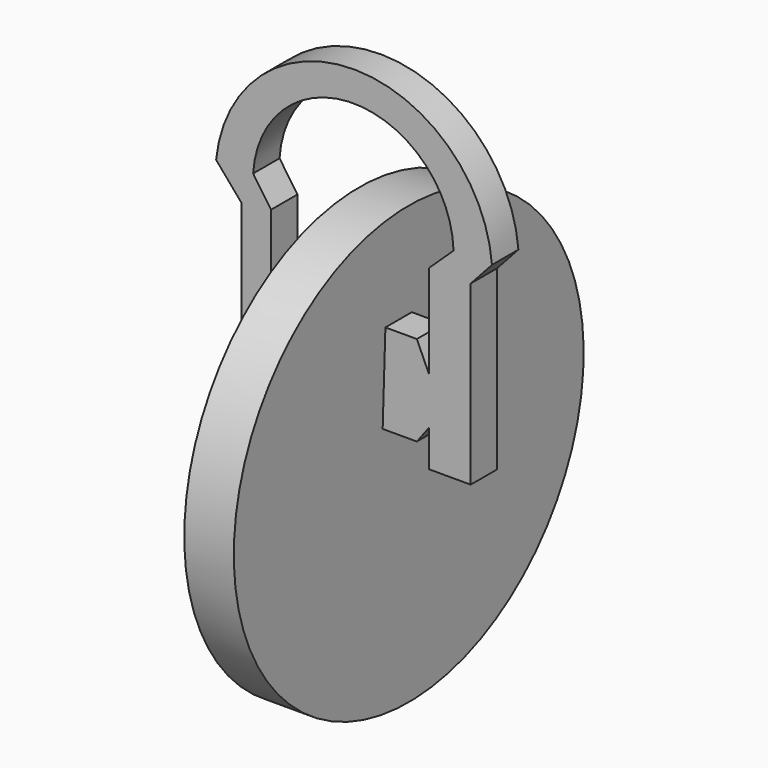
from build123d import *

# Parameters (mm, degrees)
F1_DEPTH = 7.62
F3_DEPTH = 5.08
F4_W     = 6.4344388135
F4_H     = 27.2329575382
F5_DEPTH = 5.08
F4_W_2   = 1.0554231703
F4_H_2   = 7.1008047089
F6_DEPTH = 5.08


with BuildPart() as f1:
    # F0 (on Right) → F1 (new body)
    with BuildSketch(Plane.YZ):
        with BuildLine():
            ThreePointArc((14.3857927618, 30.3976343496), (-28.4144271888, -17.9885389893), (33.6298558938, 0))
            ThreePointArc((33.6298558938, 0), (28.6741019189, 17.5716557724), (15.2674170206, 29.9645321165))
            Line((15.2674170206, 29.9645321165), (0.7576213102, 0))
            Line((0.7576213102, 0), (-0.5346691469, 0))
            Line((-0.5346691469, 0), (14.3857927618, 30.3976343496))
        make_face()
        with BuildLine():
            Line((14.3857927618, 30.3976343496), (15.2674170206, 29.9645321165))
            ThreePointArc((15.2674170206, 29.9645321165), (14.8281862339, 30.1843022191), (14.3857927618, 30.3976343496))
        make_face()
        Polygon((0.7576213102, 0), (15.2674170206, 29.9645321165), (14.3857927618, 30.3976343496), (-0.5346691469, 0), align=None)
    extrude(amount=F1_DEPTH)

    # F2 (on Front) → F3, piece 2 (join)
    with BuildSketch(Plane.XZ):
        Polygon((0, 5.4671750404), (0, 19.3453878164), (-5.3620375693, 19.3453878164), (-8.5161766037, 15.1398694143), (-8.5161766037, 8.2007627934), (-6.6236932762, 5.4671750404), align=None)
    extrude(amount=F3_DEPTH)


with BuildPart() as f3:
    # F2 (on Front) → F3 (new body)
    with BuildSketch(Plane.XZ):
        Polygon((12.9319699481, 19.3453878164), (8.0956239253, 19.3453878164), (7.6750712469, 5.4671750404), (12.9319699481, 5.4671750404), (14.8244537413, 7.9904859886), (14.8244537413, 15.1398694143), align=None)
    extrude(amount=F3_DEPTH)

    # F4 (on Front) → F5 (join)
    with BuildSketch(Plane.XZ):
        with BuildLine():
            Line((18.5775198042, 33.1439822912), (24.4885478169, 33.1439822912))
            ThreePointArc((24.4885478169, 33.1439822912), (3.4648664733, 52.7204773521), (-17.9441962391, 33.5661992431))
            Line((-17.9441962391, 33.5661992431), (-12.2442748398, 33.5661992431))
            ThreePointArc((-12.2442748398, 33.5661992431), (3.3684399437, 48.0877449787), (18.5775198042, 33.1439822912))
        make_face()
        Polygon((-9.499868378, 29.5551475137), (-14.0088759054, 28.9778341061), (-14.0088759054, 3.7999474443), (-9.499868378, 3.7999474443), (-9.499868378, 8.1409402192), (-9.499868378, 15.2417449281), align=None)
        Polygon((-12.2442748398, 33.5661992431), (-17.9441962391, 33.5661992431), (-14.0088759054, 28.9778341061), (-9.499868378, 29.5551475137), align=None)
        Polygon((21.212011639, 29.5551475137), (24.4885478169, 33.1439822912), (18.5775198042, 33.1439822912), (14.7775728256, 29.5551475137), align=None)
        with Locations((17.9947922323, 15.9386687446)):
            Rectangle(F4_W, F4_H)
    extrude(amount=F5_DEPTH)


with BuildPart() as f6:
    # F4 (on Front) → F6 (new body)
    with BuildSketch(Plane.XZ):
        with Locations((-8.9721567929, 11.6913425736)):
            Rectangle(F4_W_2, F4_H_2)
    extrude(amount=F6_DEPTH)


solid = Compound([f1.part, f3.part, f6.part])
